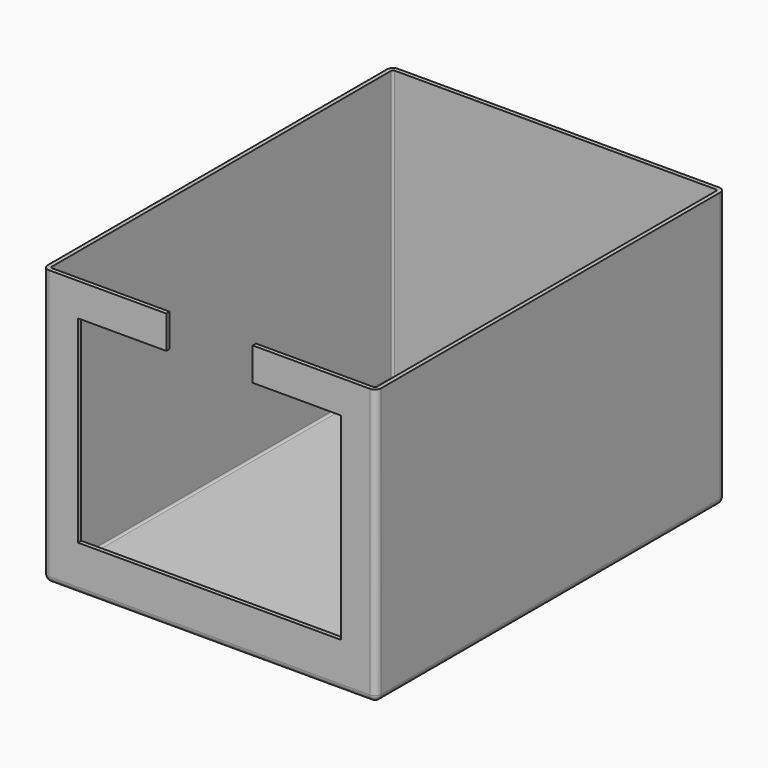
from build123d import *

# Parameters (mm, degrees)
BOX040_W     = 12.8
BOX040_H     = 0.2
BOX040_DEPTH = 9.6
BOX041_W     = 4.2
BOX041_H     = 0.2
BOX041_DEPTH = 1.6
BOX007_W     = 15.8
BOX007_H     = 20.8
BOX007_DEPTH = 13.2
FILLET008_R  = 0.1
BOX039_W     = 16.2
BOX039_H     = 21.2
BOX039_DEPTH = 13.4
FILLET009_R  = 0.3


with BuildPart() as cube:
    # Box040 → Box040 (new body)
    with BuildSketch(Plane(origin=(-6.4, 0, 2.2), x_dir=(1, 0, 0), z_dir=(0, 0, 1))):
        with Locations((6.4, 0.1)):
            Rectangle(BOX040_W, BOX040_H)
    extrude(amount=BOX040_DEPTH)


with BuildPart() as box041:
    # Box041 → Box041 (new body)
    with BuildSketch(Plane(origin=(-2.1, 0, 11.8), x_dir=(1, 0, 0), z_dir=(0, 0, 1))):
        with Locations((2.1, 0.1)):
            Rectangle(BOX041_W, BOX041_H)
    extrude(amount=BOX041_DEPTH)


with BuildPart() as fusion042:
    # Box007 → Box007 (new body)
    with BuildSketch(Plane(origin=(-7.9, 0.2, 0.2), x_dir=(1, 0, 0), z_dir=(0, 0, 1))):
        with Locations((7.9, 10.4)):
            Rectangle(BOX007_W, BOX007_H)
    extrude(amount=BOX007_DEPTH)

    # Fillet008
    fillet008_edges = [fusion042.edges().sort_by_distance(p)[0] for p in [
        (-7.9, 0.2, 6.8),
        (-7.9, 21, 6.8),
        (-7.9, 10.6, 0.2),
        (7.9, 0.2, 6.8),
        (7.9, 21, 6.8),
        (7.9, 10.6, 0.2),
        (0, 0.2, 0.2),
        (0, 21, 0.2),
    ]]
    fillet(fillet008_edges, radius=FILLET008_R)

    # Fusion042: union Cube, Box041
    add(cube.part)
    add(box041.part)


with BuildPart() as shield:
    # Box039 → Box039 (new body)
    with BuildSketch(Plane(origin=(-8.1, 0, 0), x_dir=(1, 0, 0), z_dir=(0, 0, 1))):
        with Locations((8.1, 10.6)):
            Rectangle(BOX039_W, BOX039_H)
    extrude(amount=BOX039_DEPTH)

    # Fillet009
    fillet009_edges = [shield.edges().sort_by_distance(p)[0] for p in [
        (-8.1, 0, 6.7),
        (-8.1, 21.2, 6.7),
        (-8.1, 10.6, 0),
        (8.1, 0, 6.7),
        (8.1, 21.2, 6.7),
        (8.1, 10.6, 0),
        (0, 0, 0),
        (0, 21.2, 0),
    ]]
    fillet(fillet009_edges, radius=FILLET009_R)

    # Cut009: cut Fusion042
    add(fusion042.part, mode=Mode.SUBTRACT)


solid = shield.part
